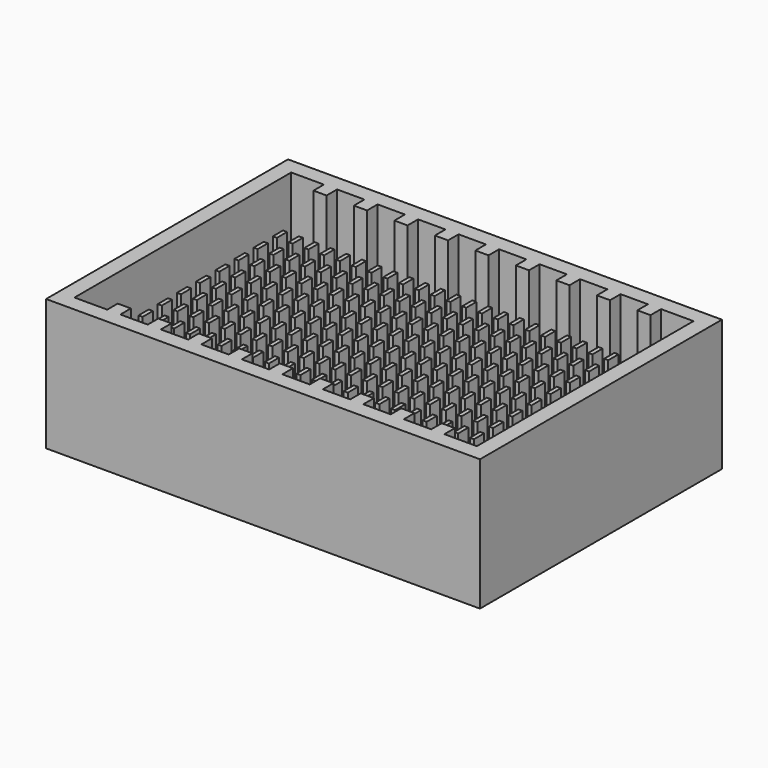
from build123d import *

# Parameters (mm, degrees)
F0_W     = 33
F0_H     = 23
F0_W_2   = 30.6
F0_H_2   = 20.6
F1_DEPTH = 10
F2_DEPTH = 1.2
F3_W     = 1
F3_H     = 7
F4_DEPTH = 1
F5_W     = 1
F5_H     = 7
F6_DEPTH = 1
F7_W     = 0.310161
F7_H     = 0.969272
F7_W_2   = 0.31016
F7_H_2   = 0.969273
F8_DEPTH = 6.5


with BuildPart() as f1:
    # F0 (on Top) → F1 (new body)
    with BuildSketch(Plane.XY):
        with Locations((-88.056419, 11.5)):
            Rectangle(F0_W, F0_H)
        with Locations((-88.056419, 11.5)):
            Rectangle(F0_W_2, F0_H_2, mode=Mode.SUBTRACT)
    extrude(amount=F1_DEPTH)

    # F0 (on Top) → F2 (join)
    with BuildSketch(Plane.XY):
        with Locations((-88.056419, 11.5)):
            Rectangle(F0_W_2, F0_H_2)
    extrude(amount=F2_DEPTH)

    # F3 (on face) → F4 (join)
    with BuildSketch(Plane.XZ.offset(-21.8)):
        with Locations((-97.28567, 6.5)):
            Rectangle(F3_W, F3_H)
        with Locations((-94.20567, 6.5)):
            Rectangle(F3_W, F3_H)
        with Locations((-91.12567, 6.5)):
            Rectangle(F3_W, F3_H)
        with Locations((-88.04567, 6.5)):
            Rectangle(F3_W, F3_H)
        with Locations((-84.96567, 6.5)):
            Rectangle(F3_W, F3_H)
        with Locations((-81.88567, 6.5)):
            Rectangle(F3_W, F3_H)
        with Locations((-78.80567, 6.5)):
            Rectangle(F3_W, F3_H)
        with Locations((-75.72567, 6.5)):
            Rectangle(F3_W, F3_H)
        with Locations((-100.36567, 6.5)):
            Rectangle(F3_W, F3_H)
    extrude(amount=F4_DEPTH)

    # F5 (on face) → F6 (join)
    with BuildSketch(Plane(origin=(0, 1.2, 0), x_dir=(-1, 0, 0), z_dir=(0, 1, 0))):
        with Locations((75.72567, 6.5)):
            Rectangle(F5_W, F5_H)
        with Locations((78.80567, 6.5)):
            Rectangle(F5_W, F5_H)
        with Locations((81.88567, 6.5)):
            Rectangle(F5_W, F5_H)
        with Locations((84.96567, 6.5)):
            Rectangle(F5_W, F5_H)
        with Locations((88.04567, 6.5)):
            Rectangle(F5_W, F5_H)
        with Locations((91.12567, 6.5)):
            Rectangle(F5_W, F5_H)
        with Locations((94.20567, 6.5)):
            Rectangle(F5_W, F5_H)
        with Locations((97.28567, 6.5)):
            Rectangle(F5_W, F5_H)
        with Locations((100.36567, 6.5)):
            Rectangle(F5_W, F5_H)
    extrude(amount=F6_DEPTH)

    # F7 (on face) → F8 (join)
    with BuildSketch(Plane.XY.offset(1.2)):
        with Locations((-101.682711, 18.640066)):
            Rectangle(F7_W, F7_H)
        with Locations((-100.482711, 18.640066)):
            Rectangle(F7_W, F7_H)
        with Locations((-99.282712, 18.640066)):
            Rectangle(F7_W, F7_H)
        with Locations((-98.082711, 18.640066)):
            Rectangle(F7_W, F7_H)
        with Locations((-96.882711, 18.640066)):
            Rectangle(F7_W, F7_H)
        with Locations((-95.682711, 18.640066)):
            Rectangle(F7_W, F7_H)
        with Locations((-94.482711, 18.640066)):
            Rectangle(F7_W, F7_H)
        with Locations((-93.282712, 18.640066)):
            Rectangle(F7_W, F7_H)
        with Locations((-92.082711, 18.640066)):
            Rectangle(F7_W, F7_H)
        with Locations((-90.882711, 18.640066)):
            Rectangle(F7_W, F7_H)
        with Locations((-89.682711, 18.640066)):
            Rectangle(F7_W, F7_H)
        with Locations((-88.482711, 18.640066)):
            Rectangle(F7_W, F7_H)
        with Locations((-87.282712, 18.640066)):
            Rectangle(F7_W, F7_H)
        with Locations((-86.082711, 18.640066)):
            Rectangle(F7_W, F7_H)
        with Locations((-84.882711, 18.640066)):
            Rectangle(F7_W, F7_H)
        with Locations((-83.682711, 18.640066)):
            Rectangle(F7_W, F7_H)
        with Locations((-82.482711, 18.640066)):
            Rectangle(F7_W, F7_H)
        with Locations((-81.282712, 18.640066)):
            Rectangle(F7_W, F7_H)
        with Locations((-80.082711, 18.640066)):
            Rectangle(F7_W, F7_H)
        with Locations((-78.882711, 18.640066)):
            Rectangle(F7_W, F7_H)
        with Locations((-77.682711, 18.640066)):
            Rectangle(F7_W, F7_H)
        with Locations((-76.482711, 18.640066)):
            Rectangle(F7_W, F7_H)
        with Locations((-75.282712, 18.640066)):
            Rectangle(F7_W, F7_H)
        with Locations((-74.082711, 18.640066)):
            Rectangle(F7_W, F7_H)
        with Locations((-101.66492, 16.794636)):
            Rectangle(F7_W_2, F7_H)
        with Locations((-99.26492, 16.794636)):
            Rectangle(F7_W_2, F7_H)
        with Locations((-75.26492, 16.794636)):
            Rectangle(F7_W_2, F7_H)
        with Locations((-80.06492, 16.794636)):
            Rectangle(F7_W_2, F7_H)
        with Locations((-84.86492, 16.794636)):
            Rectangle(F7_W_2, F7_H)
        with Locations((-82.46492, 16.794636)):
            Rectangle(F7_W_2, F7_H)
        with Locations((-87.26492, 16.794636)):
            Rectangle(F7_W_2, F7_H)
        with Locations((-92.06492, 16.794636)):
            Rectangle(F7_W_2, F7_H)
        with Locations((-96.86492, 16.794636)):
            Rectangle(F7_W_2, F7_H)
        with Locations((-77.66492, 16.794636)):
            Rectangle(F7_W_2, F7_H)
        with Locations((-89.66492, 16.794636)):
            Rectangle(F7_W_2, F7_H)
        with Locations((-94.46492, 16.794636)):
            Rectangle(F7_W_2, F7_H)
        with Locations((-83.66492, 16.794636)):
            Rectangle(F7_W_2, F7_H)
        with Locations((-74.06492, 16.794636)):
            Rectangle(F7_W_2, F7_H)
        with Locations((-78.86492, 16.794636)):
            Rectangle(F7_W_2, F7_H)
        with Locations((-81.26492, 16.794636)):
            Rectangle(F7_W_2, F7_H)
        with Locations((-76.46492, 16.794636)):
            Rectangle(F7_W_2, F7_H)
        with Locations((-98.06492, 16.794636)):
            Rectangle(F7_W_2, F7_H)
        with Locations((-100.46492, 16.794636)):
            Rectangle(F7_W_2, F7_H)
        with Locations((-88.46492, 16.794636)):
            Rectangle(F7_W_2, F7_H)
        with Locations((-86.06492, 16.794636)):
            Rectangle(F7_W_2, F7_H)
        with Locations((-90.86492, 16.794636)):
            Rectangle(F7_W_2, F7_H)
        with Locations((-93.26492, 16.794636)):
            Rectangle(F7_W_2, F7_H)
        with Locations((-95.66492, 16.794636)):
            Rectangle(F7_W_2, F7_H)
        with Locations((-101.647128, 14.949206)):
            Rectangle(F7_W_2, F7_H_2)
        with Locations((-99.247128, 14.949206)):
            Rectangle(F7_W_2, F7_H_2)
        with Locations((-75.247128, 14.949206)):
            Rectangle(F7_W_2, F7_H_2)
        with Locations((-80.047128, 14.949206)):
            Rectangle(F7_W_2, F7_H_2)
        with Locations((-84.847128, 14.949206)):
            Rectangle(F7_W_2, F7_H_2)
        with Locations((-82.447128, 14.949206)):
            Rectangle(F7_W_2, F7_H_2)
        with Locations((-87.247128, 14.949206)):
            Rectangle(F7_W_2, F7_H_2)
        with Locations((-92.047128, 14.949206)):
            Rectangle(F7_W_2, F7_H_2)
        with Locations((-96.847128, 14.949206)):
            Rectangle(F7_W_2, F7_H_2)
        with Locations((-77.647128, 14.949206)):
            Rectangle(F7_W_2, F7_H_2)
        with Locations((-89.647128, 14.949206)):
            Rectangle(F7_W_2, F7_H_2)
        with Locations((-94.447128, 14.949206)):
            Rectangle(F7_W_2, F7_H_2)
        with Locations((-83.647128, 14.949206)):
            Rectangle(F7_W_2, F7_H_2)
        with Locations((-74.047128, 14.949206)):
            Rectangle(F7_W_2, F7_H_2)
        with Locations((-78.847128, 14.949206)):
            Rectangle(F7_W_2, F7_H_2)
        with Locations((-81.247128, 14.949206)):
            Rectangle(F7_W_2, F7_H_2)
        with Locations((-76.447128, 14.949206)):
            Rectangle(F7_W_2, F7_H_2)
        with Locations((-98.047128, 14.949206)):
            Rectangle(F7_W_2, F7_H_2)
        with Locations((-100.447128, 14.949206)):
            Rectangle(F7_W_2, F7_H_2)
        with Locations((-88.447128, 14.949206)):
            Rectangle(F7_W_2, F7_H_2)
        with Locations((-86.047128, 14.949206)):
            Rectangle(F7_W_2, F7_H_2)
        with Locations((-90.847128, 14.949206)):
            Rectangle(F7_W_2, F7_H_2)
        with Locations((-93.247128, 14.949206)):
            Rectangle(F7_W_2, F7_H_2)
        with Locations((-95.647128, 14.949206)):
            Rectangle(F7_W_2, F7_H_2)
        with Locations((-101.629337, 13.103777)):
            Rectangle(F7_W_2, F7_H)
        with Locations((-99.229337, 13.103777)):
            Rectangle(F7_W_2, F7_H)
        with Locations((-75.229337, 13.103777)):
            Rectangle(F7_W_2, F7_H)
        with Locations((-80.029337, 13.103777)):
            Rectangle(F7_W_2, F7_H)
        with Locations((-84.829337, 13.103777)):
            Rectangle(F7_W_2, F7_H)
        with Locations((-82.429337, 13.103777)):
            Rectangle(F7_W_2, F7_H)
        with Locations((-87.229337, 13.103777)):
            Rectangle(F7_W_2, F7_H)
        with Locations((-92.029337, 13.103777)):
            Rectangle(F7_W_2, F7_H)
        with Locations((-96.829337, 13.103777)):
            Rectangle(F7_W_2, F7_H)
        with Locations((-77.629337, 13.103777)):
            Rectangle(F7_W_2, F7_H)
        with Locations((-89.629337, 13.103777)):
            Rectangle(F7_W_2, F7_H)
        with Locations((-94.429337, 13.103777)):
            Rectangle(F7_W_2, F7_H)
        with Locations((-83.629337, 13.103777)):
            Rectangle(F7_W_2, F7_H)
        with Locations((-74.029337, 13.103777)):
            Rectangle(F7_W_2, F7_H)
        with Locations((-78.829337, 13.103777)):
            Rectangle(F7_W_2, F7_H)
        with Locations((-81.229337, 13.103777)):
            Rectangle(F7_W_2, F7_H)
        with Locations((-76.429337, 13.103777)):
            Rectangle(F7_W_2, F7_H)
        with Locations((-98.029337, 13.103777)):
            Rectangle(F7_W_2, F7_H)
        with Locations((-100.429337, 13.103777)):
            Rectangle(F7_W_2, F7_H)
        with Locations((-88.429337, 13.103777)):
            Rectangle(F7_W_2, F7_H)
        with Locations((-86.029337, 13.103777)):
            Rectangle(F7_W_2, F7_H)
        with Locations((-90.829337, 13.103777)):
            Rectangle(F7_W_2, F7_H)
        with Locations((-93.229337, 13.103777)):
            Rectangle(F7_W_2, F7_H)
        with Locations((-95.629337, 13.103777)):
            Rectangle(F7_W_2, F7_H)
        with Locations((-101.611545, 11.258347)):
            Rectangle(F7_W_2, F7_H_2)
        with Locations((-99.211545, 11.258347)):
            Rectangle(F7_W_2, F7_H_2)
        with Locations((-75.211545, 11.258347)):
            Rectangle(F7_W_2, F7_H_2)
        with Locations((-80.011545, 11.258347)):
            Rectangle(F7_W_2, F7_H_2)
        with Locations((-84.811545, 11.258347)):
            Rectangle(F7_W_2, F7_H_2)
        with Locations((-82.411545, 11.258347)):
            Rectangle(F7_W_2, F7_H_2)
        with Locations((-87.211545, 11.258347)):
            Rectangle(F7_W_2, F7_H_2)
        with Locations((-92.011545, 11.258347)):
            Rectangle(F7_W_2, F7_H_2)
        with Locations((-96.811545, 11.258347)):
            Rectangle(F7_W_2, F7_H_2)
        with Locations((-77.611545, 11.258347)):
            Rectangle(F7_W_2, F7_H_2)
        with Locations((-89.611545, 11.258347)):
            Rectangle(F7_W_2, F7_H_2)
        with Locations((-94.411545, 11.258347)):
            Rectangle(F7_W_2, F7_H_2)
        with Locations((-83.611545, 11.258347)):
            Rectangle(F7_W_2, F7_H_2)
        with Locations((-74.011545, 11.258347)):
            Rectangle(F7_W_2, F7_H_2)
        with Locations((-78.811545, 11.258347)):
            Rectangle(F7_W_2, F7_H_2)
        with Locations((-81.211545, 11.258347)):
            Rectangle(F7_W_2, F7_H_2)
        with Locations((-76.411545, 11.258347)):
            Rectangle(F7_W_2, F7_H_2)
        with Locations((-98.011545, 11.258347)):
            Rectangle(F7_W_2, F7_H_2)
        with Locations((-100.411545, 11.258347)):
            Rectangle(F7_W_2, F7_H_2)
        with Locations((-88.411545, 11.258347)):
            Rectangle(F7_W_2, F7_H_2)
        with Locations((-86.011545, 11.258347)):
            Rectangle(F7_W_2, F7_H_2)
        with Locations((-90.811545, 11.258347)):
            Rectangle(F7_W_2, F7_H_2)
        with Locations((-93.211545, 11.258347)):
            Rectangle(F7_W_2, F7_H_2)
        with Locations((-95.611545, 11.258347)):
            Rectangle(F7_W_2, F7_H_2)
        with Locations((-101.593754, 9.412918)):
            Rectangle(F7_W_2, F7_H)
        with Locations((-99.193754, 9.412918)):
            Rectangle(F7_W_2, F7_H)
        with Locations((-75.193754, 9.412918)):
            Rectangle(F7_W_2, F7_H)
        with Locations((-79.993754, 9.412918)):
            Rectangle(F7_W_2, F7_H)
        with Locations((-84.793754, 9.412918)):
            Rectangle(F7_W_2, F7_H)
        with Locations((-82.393754, 9.412918)):
            Rectangle(F7_W_2, F7_H)
        with Locations((-87.193754, 9.412918)):
            Rectangle(F7_W_2, F7_H)
        with Locations((-91.993754, 9.412918)):
            Rectangle(F7_W_2, F7_H)
        with Locations((-96.793754, 9.412918)):
            Rectangle(F7_W_2, F7_H)
        with Locations((-77.593754, 9.412918)):
            Rectangle(F7_W_2, F7_H)
        with Locations((-89.593754, 9.412918)):
            Rectangle(F7_W_2, F7_H)
        with Locations((-94.393754, 9.412918)):
            Rectangle(F7_W_2, F7_H)
        with Locations((-83.593754, 9.412918)):
            Rectangle(F7_W_2, F7_H)
        with Locations((-73.993754, 9.412918)):
            Rectangle(F7_W_2, F7_H)
        with Locations((-78.793754, 9.412918)):
            Rectangle(F7_W_2, F7_H)
        with Locations((-81.193754, 9.412918)):
            Rectangle(F7_W_2, F7_H)
        with Locations((-76.393754, 9.412918)):
            Rectangle(F7_W_2, F7_H)
        with Locations((-97.993754, 9.412918)):
            Rectangle(F7_W_2, F7_H)
        with Locations((-100.393754, 9.412918)):
            Rectangle(F7_W_2, F7_H)
        with Locations((-88.393754, 9.412918)):
            Rectangle(F7_W_2, F7_H)
        with Locations((-85.993754, 9.412918)):
            Rectangle(F7_W_2, F7_H)
        with Locations((-90.793754, 9.412918)):
            Rectangle(F7_W_2, F7_H)
        with Locations((-93.193754, 9.412918)):
            Rectangle(F7_W_2, F7_H)
        with Locations((-95.593754, 9.412918)):
            Rectangle(F7_W_2, F7_H)
        with Locations((-101.575962, 7.567488)):
            Rectangle(F7_W_2, F7_H_2)
        with Locations((-99.175962, 7.567488)):
            Rectangle(F7_W_2, F7_H_2)
        with Locations((-75.175962, 7.567488)):
            Rectangle(F7_W_2, F7_H_2)
        with Locations((-79.975962, 7.567488)):
            Rectangle(F7_W_2, F7_H_2)
        with Locations((-84.775962, 7.567488)):
            Rectangle(F7_W_2, F7_H_2)
        with Locations((-82.375962, 7.567488)):
            Rectangle(F7_W_2, F7_H_2)
        with Locations((-87.175962, 7.567488)):
            Rectangle(F7_W_2, F7_H_2)
        with Locations((-91.975962, 7.567488)):
            Rectangle(F7_W_2, F7_H_2)
        with Locations((-96.775962, 7.567488)):
            Rectangle(F7_W_2, F7_H_2)
        with Locations((-77.575962, 7.567488)):
            Rectangle(F7_W_2, F7_H_2)
        with Locations((-89.575962, 7.567488)):
            Rectangle(F7_W_2, F7_H_2)
        with Locations((-94.375962, 7.567488)):
            Rectangle(F7_W_2, F7_H_2)
        with Locations((-83.575962, 7.567488)):
            Rectangle(F7_W_2, F7_H_2)
        with Locations((-73.975962, 7.567488)):
            Rectangle(F7_W_2, F7_H_2)
        with Locations((-78.775962, 7.567488)):
            Rectangle(F7_W_2, F7_H_2)
        with Locations((-81.175962, 7.567488)):
            Rectangle(F7_W_2, F7_H_2)
        with Locations((-76.375962, 7.567488)):
            Rectangle(F7_W_2, F7_H_2)
        with Locations((-97.975962, 7.567488)):
            Rectangle(F7_W_2, F7_H_2)
        with Locations((-100.375962, 7.567488)):
            Rectangle(F7_W_2, F7_H_2)
        with Locations((-88.375962, 7.567488)):
            Rectangle(F7_W_2, F7_H_2)
        with Locations((-85.975962, 7.567488)):
            Rectangle(F7_W_2, F7_H_2)
        with Locations((-90.775962, 7.567488)):
            Rectangle(F7_W_2, F7_H_2)
        with Locations((-93.175962, 7.567488)):
            Rectangle(F7_W_2, F7_H_2)
        with Locations((-95.575962, 7.567488)):
            Rectangle(F7_W_2, F7_H_2)
        with Locations((-101.558171, 5.722059)):
            Rectangle(F7_W_2, F7_H)
        with Locations((-99.158171, 5.722059)):
            Rectangle(F7_W_2, F7_H)
        with Locations((-75.158171, 5.722059)):
            Rectangle(F7_W_2, F7_H)
        with Locations((-79.958171, 5.722059)):
            Rectangle(F7_W_2, F7_H)
        with Locations((-84.758171, 5.722059)):
            Rectangle(F7_W_2, F7_H)
        with Locations((-82.358171, 5.722059)):
            Rectangle(F7_W_2, F7_H)
        with Locations((-87.158171, 5.722059)):
            Rectangle(F7_W_2, F7_H)
        with Locations((-91.958171, 5.722059)):
            Rectangle(F7_W_2, F7_H)
        with Locations((-96.758171, 5.722059)):
            Rectangle(F7_W_2, F7_H)
        with Locations((-77.558171, 5.722059)):
            Rectangle(F7_W_2, F7_H)
        with Locations((-89.558171, 5.722059)):
            Rectangle(F7_W_2, F7_H)
        with Locations((-94.358171, 5.722059)):
            Rectangle(F7_W_2, F7_H)
        with Locations((-83.558171, 5.722059)):
            Rectangle(F7_W_2, F7_H)
        with Locations((-73.958171, 5.722059)):
            Rectangle(F7_W_2, F7_H)
        with Locations((-78.758171, 5.722059)):
            Rectangle(F7_W_2, F7_H)
        with Locations((-81.158171, 5.722059)):
            Rectangle(F7_W_2, F7_H)
        with Locations((-76.358171, 5.722059)):
            Rectangle(F7_W_2, F7_H)
        with Locations((-97.958171, 5.722059)):
            Rectangle(F7_W_2, F7_H)
        with Locations((-100.358171, 5.722059)):
            Rectangle(F7_W_2, F7_H)
        with Locations((-88.358171, 5.722059)):
            Rectangle(F7_W_2, F7_H)
        with Locations((-85.958171, 5.722059)):
            Rectangle(F7_W_2, F7_H)
        with Locations((-90.758171, 5.722059)):
            Rectangle(F7_W_2, F7_H)
        with Locations((-93.158171, 5.722059)):
            Rectangle(F7_W_2, F7_H)
        with Locations((-95.558171, 5.722059)):
            Rectangle(F7_W_2, F7_H)
        with Locations((-101.540379, 3.876629)):
            Rectangle(F7_W_2, F7_H_2)
        with Locations((-99.140379, 3.876629)):
            Rectangle(F7_W_2, F7_H_2)
        with Locations((-75.140379, 3.876629)):
            Rectangle(F7_W_2, F7_H_2)
        with Locations((-79.940379, 3.876629)):
            Rectangle(F7_W_2, F7_H_2)
        with Locations((-84.740379, 3.876629)):
            Rectangle(F7_W_2, F7_H_2)
        with Locations((-82.340379, 3.876629)):
            Rectangle(F7_W_2, F7_H_2)
        with Locations((-87.140379, 3.876629)):
            Rectangle(F7_W_2, F7_H_2)
        with Locations((-91.940379, 3.876629)):
            Rectangle(F7_W_2, F7_H_2)
        with Locations((-96.740379, 3.876629)):
            Rectangle(F7_W_2, F7_H_2)
        with Locations((-77.540379, 3.876629)):
            Rectangle(F7_W_2, F7_H_2)
        with Locations((-89.540379, 3.876629)):
            Rectangle(F7_W_2, F7_H_2)
        with Locations((-94.340379, 3.876629)):
            Rectangle(F7_W_2, F7_H_2)
        with Locations((-83.540379, 3.876629)):
            Rectangle(F7_W_2, F7_H_2)
        with Locations((-73.940379, 3.876629)):
            Rectangle(F7_W_2, F7_H_2)
        with Locations((-78.740379, 3.876629)):
            Rectangle(F7_W_2, F7_H_2)
        with Locations((-81.140379, 3.876629)):
            Rectangle(F7_W_2, F7_H_2)
        with Locations((-76.340379, 3.876629)):
            Rectangle(F7_W_2, F7_H_2)
        with Locations((-97.940379, 3.876629)):
            Rectangle(F7_W_2, F7_H_2)
        with Locations((-100.340379, 3.876629)):
            Rectangle(F7_W_2, F7_H_2)
        with Locations((-88.340379, 3.876629)):
            Rectangle(F7_W_2, F7_H_2)
        with Locations((-85.940379, 3.876629)):
            Rectangle(F7_W_2, F7_H_2)
        with Locations((-90.740379, 3.876629)):
            Rectangle(F7_W_2, F7_H_2)
        with Locations((-93.140379, 3.876629)):
            Rectangle(F7_W_2, F7_H_2)
        with Locations((-95.540379, 3.876629)):
            Rectangle(F7_W_2, F7_H_2)
    extrude(amount=F8_DEPTH)


solid = f1.part
